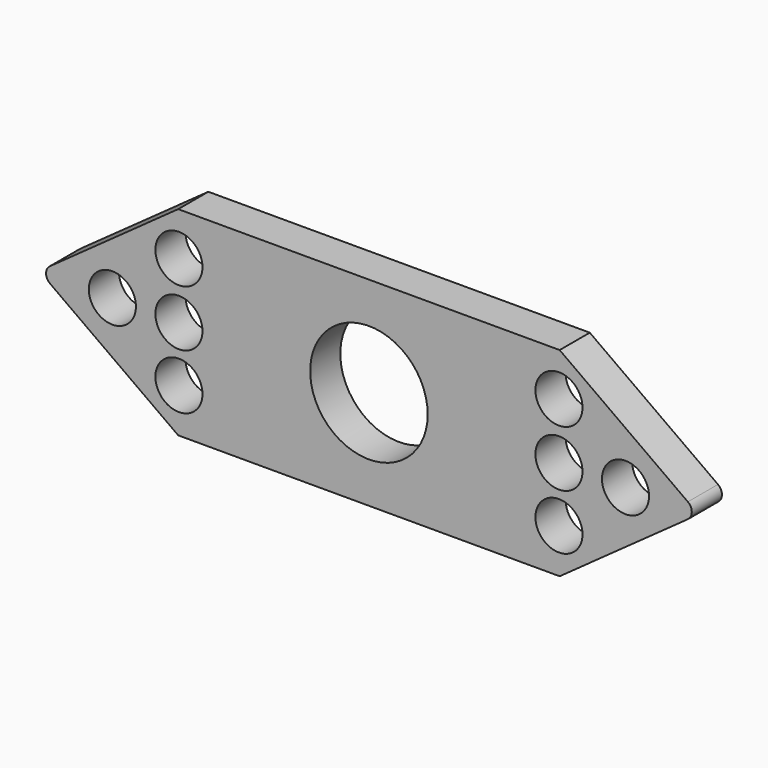
from build123d import *

# Parameters (mm, degrees)
F0_R     = 7.9248
F1_DEPTH = 5.08
F2_R     = 1.27
F3_R     = 3.175
F4_DEPTH = 25.4


with BuildPart() as f1:
    # F0 (on Front) → F1 (new body)
    with BuildSketch(Plane.XZ):
        Polygon((-25.72123, 13.428098), (-44.45, 0), (-25.72123, -13.428098), (25.72123, -13.428098), (44.45, 0), (25.72123, 13.428098), align=None)
        Circle(F0_R, mode=Mode.SUBTRACT)
    extrude(amount=F1_DEPTH)

    # F2
    f2_edges = [f1.edges().sort_by_distance(p)[0] for p in [
        (44.45, -2.54, 0),
        (-44.45, -2.54, 0),
    ]]
    fillet(f2_edges, radius=F2_R)

    # F3 (on face) → F4 (cut)
    with BuildSketch(Plane.XZ.offset(5.08)):
        with Locations((-25.625831, 7.596325)):
            Circle(F3_R)
        with Locations((-25.625831, 0)):
            Circle(F3_R)
        with Locations((-25.625831, -7.464381)):
            Circle(F3_R)
        with Locations((-34.600362, 0)):
            Circle(F3_R)
        with Locations((25.625831, 0)):
            Circle(F3_R)
        with Locations((25.625831, 7.596325)):
            Circle(F3_R)
        with Locations((34.600362, 0)):
            Circle(F3_R)
        with Locations((25.625831, -7.464381)):
            Circle(F3_R)
    extrude(amount=-F4_DEPTH, mode=Mode.SUBTRACT)


solid = f1.part
